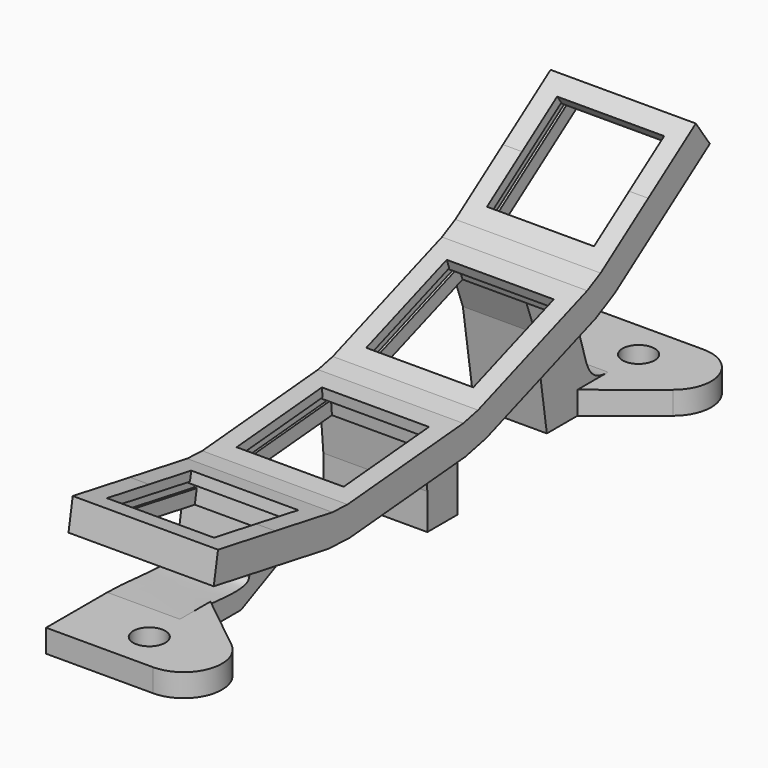
from build123d import *

# Parameters (mm, degrees)
PAD020_DEPTH      = 9.5
POCKET010_DEPTH   = 7
POCKET011_DEPTH   = 7.3
PAD021_DEPTH      = 4.1
PAD021_DEPTH_BACK = 9.5
PAD022_DEPTH      = 9.5
SKETCH037_R       = 2.1
PAD023_DEPTH      = 3


with BuildPart() as part:
    # Sketch032 → Pad020 (new body, symmetric)
    with BuildSketch(Plane.YZ):
        Polygon((-31.335250398, 12.452507497), (-12.6239030908, 9.1531921213), (-9.1152266609, 9), (9.8124726029, 10.6559591122), (13.2412428211, 11.416099169), (31.0954026161, 17.9144818922), (34.2106015986, 19.5361518385), (49.7744904401, 30.4341041291), (47.4801846947, 33.7107123063), (39.698240274, 28.2617361609), (31.9162958532, 22.8127600156), (29.7273220428, 21.6732523754), (20.8002421453, 18.4240610138), (11.8731622478, 15.1748696522), (9.4638496319, 14.6407379046), (0, 13.8127583485), (-9.4638496319, 12.9847787924), (-11.9293103801, 13.0924231333), (-21.2849840337, 14.7420808212), (-30.6406576873, 16.391738509), align=None)
    extrude(amount=PAD020_DEPTH, both=True)

    # Sketch033 → Pocket010 (cut, symmetric)
    with BuildSketch(Plane.YZ):
        Polygon((-28.1786383048, 15.9576180648), (-21.2849840337, 14.7420808212), (-14.3913297626, 13.5265435775), (-14.6344372114, 12.1478127233), (-13.3541871324, 11.9220700923), (-13.8056723944, 9.3615699345), (-21.9795767444, 10.8028498091), (-30.1534810944, 12.2441296838), (-29.7019958324, 14.8046298416), (-28.4217457535, 14.5788872106), align=None)
        Polygon((-6.9733628866, 13.2026681492), (0, 13.8127583485), (6.9733628866, 14.4228485477), (7.0953809265, 13.0281759704), (8.390434034, 13.1414784359), (8.6170389652, 10.5513722209), (0.348622971, 9.8279795561), (-7.9197930232, 9.1045868913), (-8.1463979543, 11.6946931063), (-6.8513448468, 11.8079955719), align=None)
        Polygon((14.2223937998, 16.0299200105), (20.8002421453, 18.4240610138), (27.3780904908, 20.818202017), (27.8569186914, 19.5026323479), (29.0785190985, 19.9472585343), (29.9677714711, 17.5040577202), (22.1683227186, 14.6652905306), (14.3688739661, 11.826523341), (13.4796215934, 14.2697241551), (14.7012220004, 14.7143503414), align=None)
        Polygon((33.964175964, 24.2467011065), (39.698240274, 28.2617361609), (45.432304584, 32.2767712154), (46.2353115949, 31.1299583534), (47.3002092525, 31.8756077207), (48.791507987, 29.7458124055), (41.9925460194, 24.9851279838), (35.1935840518, 20.2244435621), (33.7022853173, 22.3542388772), (34.7671829748, 23.0998882445), align=None)
    extrude(amount=POCKET010_DEPTH, both=True, mode=Mode.SUBTRACT)

    # Sketch034 → Pocket011 (cut, symmetric)
    with BuildSketch(Plane.YZ):
        Polygon((14.6328179718, 14.9022888655), (27.7885146628, 19.6905708721), (27.8569186914, 19.5026323479), (29.0785190985, 19.9472585343), (29.3521352131, 19.1955044376), (13.7532377081, 13.5179700584), (13.4796215934, 14.2697241551), (14.7012220004, 14.7143503414), align=None)
        Polygon((-6.8687759953, 12.0072345115), (7.0779497779, 13.22741491), (7.0953809265, 13.0281759704), (8.390434034, 13.1414784359), (8.4601586282, 12.3445226775), (-8.0766733601, 10.8977373479), (-8.1463979543, 11.6946931063), (-6.8513448468, 11.8079955719), align=None)
        Polygon((-28.387016118, 14.7758487612), (-14.5997075758, 12.3447742739), (-14.6344372114, 12.1478127233), (-13.3541871324, 11.9220700923), (-13.4931056746, 11.1342238899), (-29.8409143746, 14.0167836392), (-29.7019958324, 14.8046298416), (-28.4217457535, 14.5788872106), align=None)
        Polygon((34.6524676876, 23.2637186533), (46.1205963076, 31.2937887623), (46.2353115949, 31.1299583534), (47.3002092525, 31.8756077207), (47.7590704016, 31.2202860852), (34.1611464664, 21.6989172418), (33.7022853173, 22.3542388772), (34.7671829748, 23.0998882445), align=None)
    extrude(amount=POCKET011_DEPTH, both=True, mode=Mode.SUBTRACT)

    # Sketch035 → Pad021 (join, two sides)
    with BuildSketch(Plane.YZ) as pad021_sk:
        Polygon((9.4638496319, 14.6407379046), (11.8731622478, 15.1748696522), (13.2412428211, 11.416099169), (15.2933636811, 5.7779434443), (15.2933636811, 0), (10.3354070593, 0), (10.3354070593, 4.6787909237), (9.8124726029, 10.6559591122), align=None)
    extrude(amount=PAD021_DEPTH)
    extrude(pad021_sk.sketch, amount=-PAD021_DEPTH_BACK)

    # Sketch036 → Pad022 (join)
    with BuildSketch(Plane.YZ):
        with BuildLine():
            Line((-11.9293103801, 13.0924231333), (-9.4638496319, 12.9847787924))
            Line((-9.4638496319, 12.9847787924), (-9.1152266609, 9))
            Line((-9.1152266609, 9), (-8.5922922044, 3.0228318114))
            Line((-8.5922922044, 3.0228318114), (-15, 0))
            Line((-15, 0), (-25, 0))
            Line((-25, 0), (-25, 3))
            add(Edge.make_bspline(
                [(-13.6657921568, 3.2443456032), (-13.9496356176, 1.6345893441), (-20, 3), (-25, 3)],
                knots=[0, 0, 0, 0, 1, 1, 1, 1], degree=3))
            Line((-13.6657921568, 3.2443456032), (-12.6239030908, 9.1531921213))
            Line((-12.6239030908, 9.1531921213), (-11.9293103801, 13.0924231333))
        make_face()
        with BuildLine():
            Line((37.6520602167, 14.6212395727), (34.2106015986, 19.5361518385))
            Line((34.2106015986, 19.5361518385), (31.9162958532, 22.8127600156))
            Line((31.9162958532, 22.8127600156), (29.7273220428, 21.6732523754))
            Line((29.7273220428, 21.6732523754), (31.0954026161, 17.9144818922))
            Line((31.0954026161, 17.9144818922), (33.147523476, 12.2763261675))
            Line((33.147523476, 12.2763261675), (35, 0))
            Line((35, 0), (45, 0))
            Line((45, 0), (45, 3))
            add(Edge.make_bspline(
                [(37.6520602167, 14.6212395727), (42.2621193459, 8.0373928164), (40, 3), (45, 3)],
                knots=[0, 0, 0, 0, 1, 1, 1, 1], degree=3))
        make_face()
    extrude(amount=-PAD022_DEPTH)

    # Sketch037 → Pad023 (join)
    with BuildSketch(Plane.XY):
        with BuildLine():
            Line((0, -20), (7.6224992299, -26.0948753465))
            ThreePointArc((4.5, -35), (9.218348401, -31.6544450327), (7.6224992299, -26.0948753465))
            Line((-9.5, -35), (4.5, -35))
            Line((-9.5, -25), (-9.5, -35))
            Line((0, -25), (-9.5, -25))
            Line((0, -20), (0, -25))
        make_face()
        with Locations((0, -30)):
            Circle(SKETCH037_R, mode=Mode.SUBTRACT)
        with BuildLine():
            Line((0, 45), (0, 40))
            Line((7.6224992299, 46.0948753465), (0, 40))
            ThreePointArc((7.6224992299, 46.0948753465), (9.218348401, 51.6544450327), (4.5, 55))
            Line((-9.5, 55), (4.5, 55))
            Line((-9.5, 45), (-9.5, 55))
            Line((0, 45), (-9.5, 45))
        make_face()
        with Locations((0, 50)):
            Circle(SKETCH037_R, mode=Mode.SUBTRACT)
    extrude(amount=PAD023_DEPTH)


with BuildPart() as part_1:
    # Body005 placement: moved
    add(part.part.moved(Location((110, 0, 5))))


solid = part_1.part
